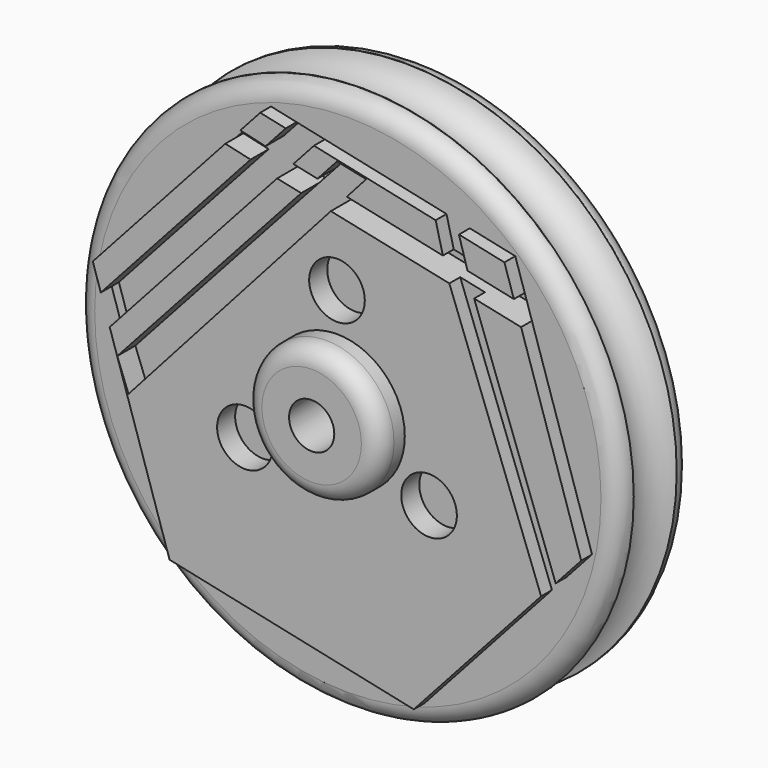
from build123d import *

# Parameters (mm, degrees)
F0_R      = 76.2
F1_DEPTH  = 25.4
F2_R      = 5.08
F3_R      = 19.05
F4_DEPTH  = 12.7
F5_R      = 5.08
F6_R      = 6.35
F7_DEPTH  = 76.2
F8_R      = 7.8213855598
F10_R     = 19.05
F12_DEPTH = 3.81
F13_R     = 7.8169730868
F14_DEPTH = 6.35
F17_DEPTH = 6.35
F19_DEPTH = 8.89
F21_DEPTH = 6.35
F23_DEPTH = 3.81
F25_DEPTH = 3.81


with BuildPart() as f1:
    # F0 (on Front) → F1 (new body)
    with BuildSketch(Plane.XZ):
        Circle(F0_R)
    extrude(amount=F1_DEPTH)

    # F2
    f2_edges = [f1.edges().sort_by_distance(p)[0] for p in [
        (-76.2, 0, 0),
        (-76.2, -25.4, 0),
    ]]
    fillet(f2_edges, radius=F2_R)

    # F3 (on face) → F4 (join)
    with BuildSketch(Plane.XZ.offset(25.4)):
        Circle(F3_R)
    extrude(amount=F4_DEPTH)

    # F5
    f5_edges = [f1.edges().sort_by_distance(p)[0] for p in [
        (-19.05, -38.1, 0),
    ]]
    fillet(f5_edges, radius=F5_R)

    # F6 (on face) → F7 (cut)
    with BuildSketch(Plane.XZ.offset(38.1)):
        Circle(F6_R)
    extrude(amount=-F7_DEPTH, mode=Mode.SUBTRACT)

    # F8 (on Right) → F9 (revolve, cut)
    with BuildSketch(Plane.YZ):
        with Locations((-12.6901438412, 78.25367953)):
            Circle(F8_R)
    revolve(axis=Axis((0, -25.4, 0), (0, -1, 0)), mode=Mode.SUBTRACT)

    # F10 (on face) → F12 (join)
    with BuildSketch(Plane.XZ.offset(25.4)):
        Polygon((47.0374568453, 52.0669616734), (-21.5725830844, 66.7691133941), (-68.6100399297, 14.7021517208), (-47.0374568453, -52.0669616734), (21.5725830844, -66.7691133941), (68.6100399297, -14.7021517208), align=None)
        Circle(F10_R, mode=Mode.SUBTRACT)
    extrude(amount=F12_DEPTH)

    # F13 (on face) → F14 (cut)
    with BuildSketch(Plane.XZ.offset(29.21)):
        with Locations((-25.8648959284, -14.9331046268)):
            Circle(F13_R)
        with Locations((25.8648959284, -14.9331046268)):
            Circle(F13_R)
        with Locations((0, 29.8662092537)):
            Circle(F13_R)
    extrude(amount=-F14_DEPTH, mode=Mode.SUBTRACT)

    # F15 (on face) + F16 (on face) → F17 (cut)
    with BuildSketch(Plane.XZ.offset(29.21)):
        Polygon((-6.4650705634, 63.5317892149), (-14.4013282363, 65.2324158946), (-66.3552315782, 7.7233140955), (-63.8598886488, 0), align=None)
    with BuildSketch(Plane.XZ.offset(29.21)):
        Polygon((0, 61.7343336344), (-61.7343373597, -6.4756297506), (-58.56847018, -14.8219969124), (8.2024643198, 60.0075013936), align=None)
    extrude(amount=-F17_DEPTH, mode=Mode.SUBTRACT)

    # F18 (on face) → F19 (cut)
    with BuildSketch(Plane.XZ.offset(29.21)):
        Polygon((-5.4865229519, 55.6723016167), (-12.2550597484, 57.1227023891), (-16.8224318034, 52.0669616734), (-10.0461006354, 50.6344468321), align=None)
        Polygon((49.692894259, 43.8481405387), (2.757754124, 53.9056707778), (-1.7298993235, 48.8764037987), (51.7189443483, 37.5773306116), align=None)
    extrude(amount=-F19_DEPTH, mode=Mode.SUBTRACT)

    # F20 (on face) → F21 (cut)
    with BuildSketch(Plane.XZ.offset(29.21)):
        Polygon((-24.2682661942, 54.3104504028), (-20.0674166684, 58.960477975), (-27.1381742899, 60.6084184199), (-31.3737366627, 55.9199663113), align=None)
    extrude(amount=-F21_DEPTH, mode=Mode.SUBTRACT)

    # F22 (on face) → F23 (cut)
    with BuildSketch(Plane.XZ.offset(29.21)):
        Polygon((38.5287505055, 40.3657345385), (31.5674540827, 41.8373509918), (57.3507397373, -27.1653585118), (61.4382083927, -22.6408351193), align=None)
    extrude(amount=-F23_DEPTH, mode=Mode.SUBTRACT)

    # F24 (on face) → F25 (cut)
    with BuildSketch(Plane.XZ.offset(29.21)):
        Polygon((29.7542170904, 48.120714307), (36.6590147413, 46.6411147795), (34.266757864, 54.8035400837), (27.7146135315, 56.2075710414), align=None)
    extrude(amount=-F25_DEPTH, mode=Mode.SUBTRACT)


solid = f1.part
